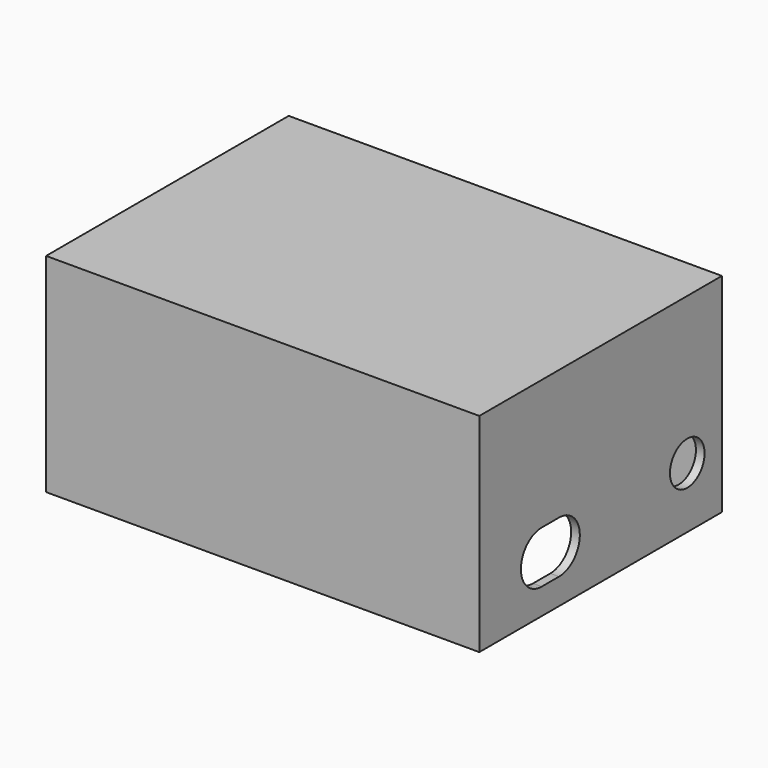
from build123d import *

# Parameters (mm, degrees)
SKETCH_W        = 63.5
SKETCH_H        = 44.45
PAD_DEPTH       = 30.48
SKETCH001_W     = 60.96
SKETCH001_H     = 41.91
POCKET_DEPTH    = 29.21
SKETCH002_R     = 2.54
PAD001_DEPTH    = 5.08
SKETCH003_R     = 3.175
POCKET001_DEPTH = 5
COPYSKETCH004_R = 1.016
PAD002_DEPTH    = 3.175


with BuildPart() as part:
    # Sketch → Pad (new body)
    with BuildSketch(Plane.XY):
        with Locations((31.75, 22.225)):
            Rectangle(SKETCH_W, SKETCH_H)
    extrude(amount=PAD_DEPTH)

    # Sketch001 (on Face5 of Pad) → Pocket (cut)
    with BuildSketch(Plane(origin=(0, 0, 0), x_dir=(1, 0, 0), z_dir=(0, 0, -1))):
        with Locations((31.75, -22.225)):
            Rectangle(SKETCH001_W, SKETCH001_H)
    extrude(amount=-POCKET_DEPTH, mode=Mode.SUBTRACT)

    # Sketch002 (on Face11 of Pocket) → Pad001 (join)
    with BuildSketch(Plane(origin=(0, 0, 29.21), x_dir=(1, 0, 0), z_dir=(0, 0, -1))):
        with Locations((3.81, -40.005)):
            Circle(SKETCH002_R)
        with Locations((59.69, -40.005)):
            Circle(SKETCH002_R)
        with Locations((3.81, -3.81)):
            Circle(SKETCH002_R)
        with Locations((59.69, -3.81)):
            Circle(SKETCH002_R)
    extrude(amount=PAD001_DEPTH)

    # Sketch003 (on Face3 of Pad001) → Pocket001 (cut)
    with BuildSketch(Plane.YZ.offset(63.5)):
        with Locations((38.1, 8.89)):
            Circle(SKETCH003_R)
        with BuildLine():
            ThreePointArc((11.43, 11.43), (7.62, 7.62), (11.43, 3.81))
            Line((11.43, 3.81), (14.605, 3.81))
            ThreePointArc((14.605, 3.81), (18.415, 7.62), (14.605, 11.43))
            Line((11.43, 11.43), (14.605, 11.43))
        make_face()
    extrude(amount=-POCKET001_DEPTH, mode=Mode.SUBTRACT)

    # CopySketch004 → Pad002 (join)
    with BuildSketch(Plane(origin=(0, 0, 24.13), x_dir=(1, 0, 0), z_dir=(0, 0, -1))):
        with Locations((3.81, -40.005)):
            Circle(COPYSKETCH004_R)
        with Locations((3.81, -3.81)):
            Circle(COPYSKETCH004_R)
        with Locations((59.69, -3.81)):
            Circle(COPYSKETCH004_R)
        with Locations((59.69, -40.005)):
            Circle(COPYSKETCH004_R)
    extrude(amount=PAD002_DEPTH)


solid = part.part
